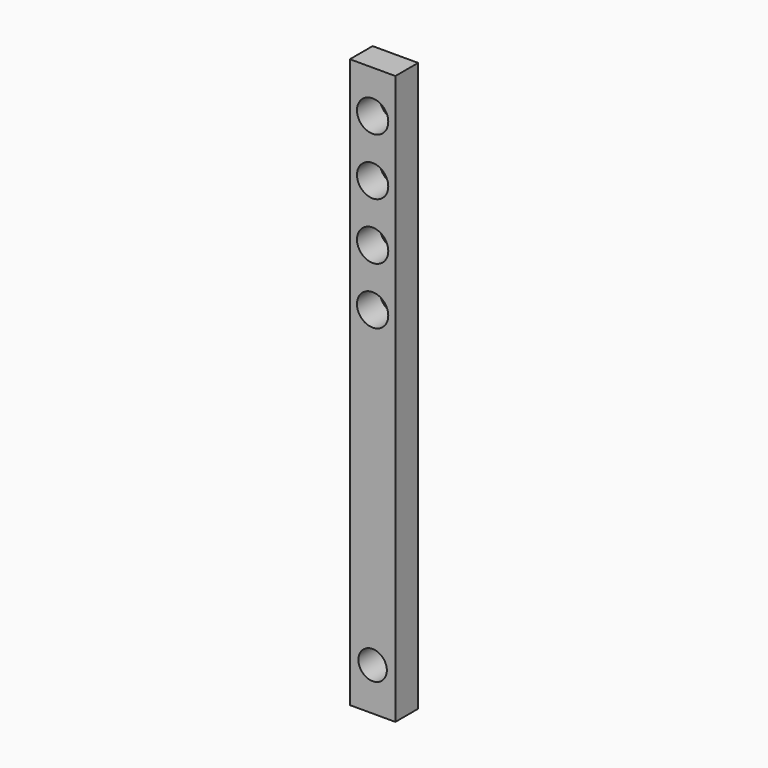
from build123d import *

# Parameters (mm, degrees)
F0_W     = 8
F0_H     = 100
F0_R     = 2.5
F0_R_2   = 2.75
F1_DEPTH = 5


with BuildPart() as f1:
    # F0 (on Front) → F1 (new body)
    with BuildSketch(Plane.XZ):
        with Locations((4, 50)):
            Rectangle(F0_W, F0_H)
        with Locations((4, 7.5)):
            Circle(F0_R, mode=Mode.SUBTRACT)
        with Locations((4, 62.5)):
            Circle(F0_R_2, mode=Mode.SUBTRACT)
        with Locations((4, 72.5)):
            Circle(F0_R_2, mode=Mode.SUBTRACT)
        with Locations((4, 82.5)):
            Circle(F0_R_2, mode=Mode.SUBTRACT)
        with Locations((4, 92.5)):
            Circle(F0_R_2, mode=Mode.SUBTRACT)
    extrude(amount=F1_DEPTH)


solid = f1.part
